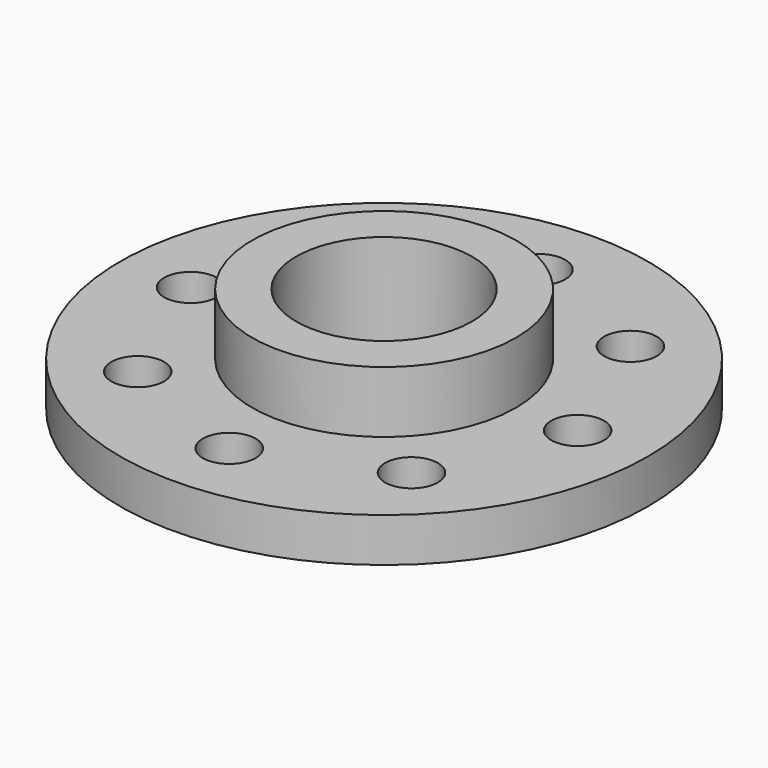
from build123d import *

# Parameters (mm, degrees)
CYLINDER003_R     = 3
CYLINDER003_DEPTH = 10
ARRAY_COUNT       = 8
CYLINDER002_R     = 10
CYLINDER002_DEPTH = 30
CYLINDER001_R     = 15
CYLINDER001_DEPTH = 12
CYLINDER_R        = 30
CYLINDER_DEPTH    = 5


with BuildPart() as array:
    # Cylinder003 → Cylinder003 (new body)
    with BuildSketch(Plane(origin=(22, 0, -2), x_dir=(1, 0, 0), z_dir=(0, 0, 1))):
        Circle(CYLINDER003_R)
    extrude(amount=CYLINDER003_DEPTH)

    # Array: Array ×8 about axis
    array_axis = Axis((0, 0, 0), (0, 0, 1))


with BuildPart() as array_1:
    add(array.part)
    for i in range(1, ARRAY_COUNT):
        add(array.part.rotate(array_axis, i * 360 / ARRAY_COUNT))


with BuildPart() as cilindro:
    # Cylinder002 → Cylinder002 (new body)
    with BuildSketch(Plane.XY.offset(-2)):
        Circle(CYLINDER002_R)
    extrude(amount=CYLINDER002_DEPTH)


with BuildPart() as tubo_exterior:
    # Cylinder001 → Cylinder001 (new body)
    with BuildSketch(Plane.XY):
        Circle(CYLINDER001_R)
    extrude(amount=CYLINDER001_DEPTH)


with BuildPart() as cut001:
    # Cylinder → Cylinder (new body)
    with BuildSketch(Plane.XY):
        Circle(CYLINDER_R)
    extrude(amount=CYLINDER_DEPTH)

    # Fusion: union tubo exterior
    add(tubo_exterior.part)

    # Cut: cut Cilindro
    add(cilindro.part, mode=Mode.SUBTRACT)

    # Cut001: cut Array
    add(array_1.part, mode=Mode.SUBTRACT)


solid = cut001.part
